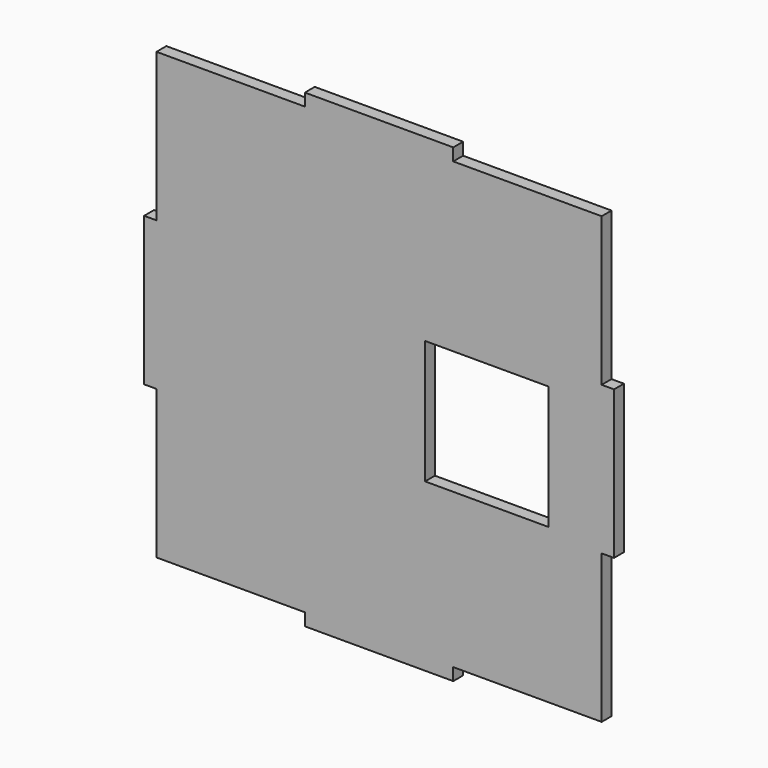
from build123d import *

# Parameters (mm, degrees)
F1_DEPTH = 3.175
F2_W     = 31.75
F2_H     = 31.75
F3_DEPTH = 3.176


with BuildPart() as f1:
    # F0 (on Front) → F1 (new body)
    with BuildSketch(Plane.XZ):
        Polygon((57.15, -19.05), (60.325, -19.05), (60.325, 19.05), (57.15, 19.05), (57.15, 57.15), (19.05, 57.15), (19.05, 60.325), (-19.05, 60.325), (-19.05, 57.15), (-57.15, 57.15), (-57.15, 19.05), (-60.325, 19.05), (-60.325, 0), (-60.325, -19.05), (-57.15, -19.05), (-57.15, -57.15), (-19.05, -57.15), (-16.51, -57.15), (19.05, -57.15), (57.15, -57.15), align=None)
        Polygon((0, -60.325), (19.05, -60.325), (19.05, -57.15), (-16.51, -57.15), (-19.05, -57.15), (-19.05, -60.325), align=None)
    extrude(amount=F1_DEPTH)

    # F2 (on face) → F3 (cut, through all)
    with BuildSketch(Plane.XZ.offset(3.175)):
        with Locations((27.686, -1.651)):
            Rectangle(F2_W, F2_H)
    extrude(amount=-F3_DEPTH, mode=Mode.SUBTRACT)


solid = f1.part
